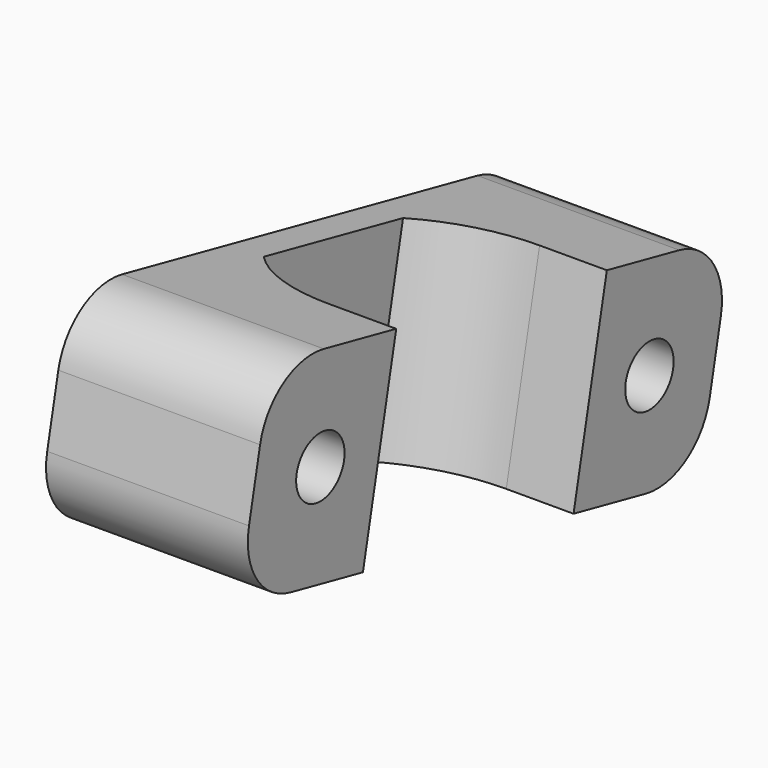
from build123d import *

# Parameters (mm, degrees)
PAD007_DEPTH    = 12
SKETCH017_R     = 1.8
HOLE004_DEPTH   = 15.001
POCKET003_DEPTH = 18.1900462152


with BuildPart() as part:
    # Sketch016 → Pad007 (new body)
    with BuildSketch(Plane.YZ.offset(3)):
        with BuildLine():
            Line((40.1500266983, 43.3493812581), (13.7307513645, 48.919111129))
            ThreePointArc((10.6419298144, 53.6582230111), (11.2048383818, 50.6489511812), (13.7307513645, 48.919111129))
            Line((10.6419298144, 53.6582230111), (11.4670749804, 57.5721897273))
            ThreePointArc((16.2061868626, 60.6610112773), (13.1969150326, 60.0981027099), (11.4670749804, 57.5721897273))
            Line((16.2061868626, 60.6610112773), (42.6254621965, 55.0912814065))
            ThreePointArc((45.7142837465, 50.3521695243), (45.1513751791, 53.3614413543), (42.6254621965, 55.0912814065))
            Line((45.7142837465, 50.3521695243), (44.8891385805, 46.4382028082))
            ThreePointArc((40.1500266983, 43.3493812581), (43.1592985283, 43.9122898256), (44.8891385805, 46.4382028082))
        make_face()
    extrude(amount=PAD007_DEPTH)

    # Sketch017 → Hole004 (cut, through all)
    with BuildSketch(Plane.YZ):
        with Locations((15.9469607926, 54.5837749116)):
            Circle(SKETCH017_R)
        with Locations((40.4092527683, 49.4266176238)):
            Circle(SKETCH017_R)
    extrude(amount=HOLE004_DEPTH, mode=Mode.SUBTRACT)

    # Sketch018 (on ShapeBinder) → Pocket003 (cut, through all)
    with BuildSketch(Plane(origin=(0, 10.4585930571, 49.6089498031), x_dir=(0, 0.978491679, -0.2062862915), z_dir=(0, -0.2062862915, -0.978491679))):
        with BuildLine():
            Line((8.8440839381, 21), (8.8440839381, 11))
            ThreePointArc((8.8440839381, 11), (9.5525813159, 7.7084973779), (11.5525813159, 5))
            Line((11.5525813159, 5), (22.1355865602, 5))
            ThreePointArc((22.1355865602, 5), (24.1355865602, 7.7084973779), (24.8440839381, 11))
            Line((24.8440839381, 11), (24.8440839381, 21))
            Line((24.8440839381, 21), (8.8440839381, 21))
        make_face()
    extrude(amount=-POCKET003_DEPTH, mode=Mode.SUBTRACT)


solid = part.part
